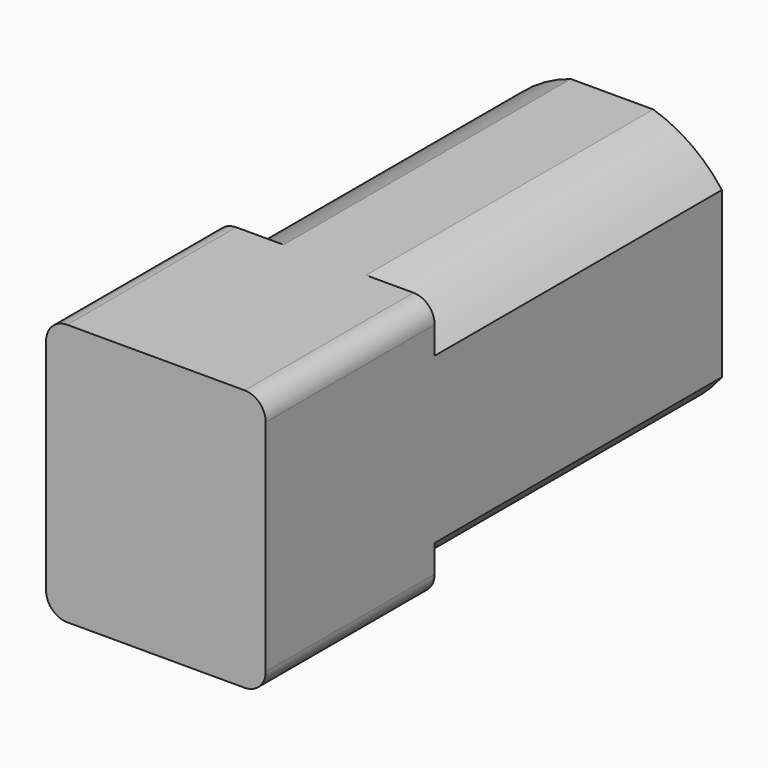
from build123d import *

# Parameters (mm, degrees)
BOX502_W                  = 10.4
BOX502_H                  = 12.4
BOX502_DEPTH              = 27
FILLET396_R               = 1
CYLINDER1193_R            = 8
CYLINDER1193_DEPTH        = 27
CYLINDER1195_R            = 6.5
CYLINDER1195_DEPTH        = 17
CYLINDER1194_R            = 8
CYLINDER1194_DEPTH        = 17
CYLINDER1196_R            = 8
CYLINDER1196_DEPTH        = 27
CUT014244_PLACEMENT_ANGLE = 90


with BuildPart() as fillet396:
    # Box502 → Box502 (new body)
    with BuildSketch(Plane(origin=(-5.2, -6.2, 0), x_dir=(1, 0, 0), z_dir=(0, 0, 1))):
        with Locations((5.2, 6.2)):
            Rectangle(BOX502_W, BOX502_H)
    extrude(amount=BOX502_DEPTH)

    # Fillet396
    fillet396_edges = [fillet396.edges().sort_by_distance(p)[0] for p in [
        (-5.2, -6.2, 13.5),
        (-5.2, 6.2, 13.5),
        (5.2, -6.2, 13.5),
        (5.2, 6.2, 13.5),
    ]]
    fillet(fillet396_edges, radius=FILLET396_R)


with BuildPart() as cut014243:
    # Cylinder1193 → Cylinder1193 (new body)
    with BuildSketch(Plane.XY):
        Circle(CYLINDER1193_R)
    extrude(amount=CYLINDER1193_DEPTH)

    # Cut014243: cut Fillet396
    add(fillet396.part, mode=Mode.SUBTRACT)


with BuildPart() as cylinder1413:
    # Cylinder1195 → Cylinder1195 (new body)
    with BuildSketch(Plane.XY):
        Circle(CYLINDER1195_R)
    extrude(amount=CYLINDER1195_DEPTH)


with BuildPart() as fusion248002050122:
    # Cylinder1194 → Cylinder1194 (new body)
    with BuildSketch(Plane.XY):
        Circle(CYLINDER1194_R)
    extrude(amount=CYLINDER1194_DEPTH)

    # Cut014242: cut Cylinder1413
    add(cylinder1413.part, mode=Mode.SUBTRACT)

    # Fusion248002050122: union Cut014243
    add(cut014243.part)


with BuildPart() as bucket_turning_motor:
    # Cylinder1196 → Cylinder1196 (new body)
    with BuildSketch(Plane.XY):
        Circle(CYLINDER1196_R)
    extrude(amount=CYLINDER1196_DEPTH)

    # Cut014244: cut Fusion248002050122
    add(fusion248002050122.part, mode=Mode.SUBTRACT)


with BuildPart() as bucket_turning_motor_1:
    # Cut014244 placement: moved
    add(bucket_turning_motor.part.moved(Location((480.5, 119, 114.75))).rotate(Axis((480.5, 119, 114.75), (1, 0, 0)), CUT014244_PLACEMENT_ANGLE))


solid = bucket_turning_motor_1.part
